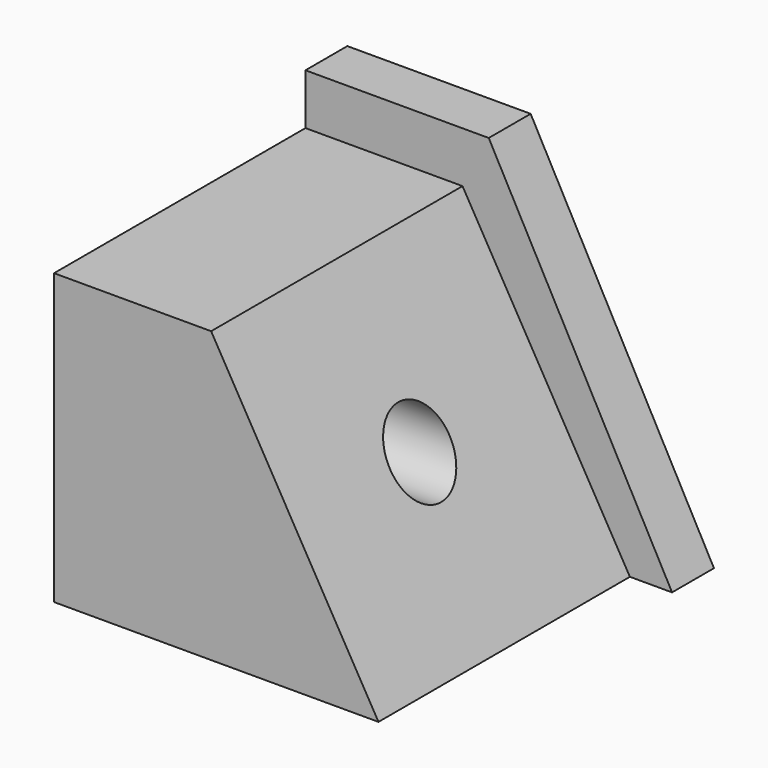
from build123d import *

# Parameters (mm, degrees)
F1_DEPTH = 25.4
F3_DEPTH = 152.4
F4_R     = 17.976868
F5_DEPTH = 177.801


with BuildPart() as f1:
    # F0 (on Front) → F1 (new body)
    with BuildSketch(Plane.XZ):
        Polygon((-177.8, 0), (0, 0), (-88.9, 165.1), (-177.8, 165.1), align=None)
    extrude(amount=F1_DEPTH)

    # F2 (on face) → F3 (join)
    with BuildSketch(Plane.XZ.offset(25.4)):
        Polygon((-177.8, 140.421584), (-177.8, 0), (-20.454695, 0), (-101.619244, 140.421584), align=None)
    extrude(amount=F3_DEPTH)

    # F4 (on face) → F5 (cut, through all)
    with BuildSketch(Plane(origin=(-177.8, 0, 0), x_dir=(0, -1, 0), z_dir=(-1, 0, 0))):
        with Locations((101.6, 70.880428)):
            Circle(F4_R)
    extrude(amount=-F5_DEPTH, mode=Mode.SUBTRACT)


solid = f1.part
